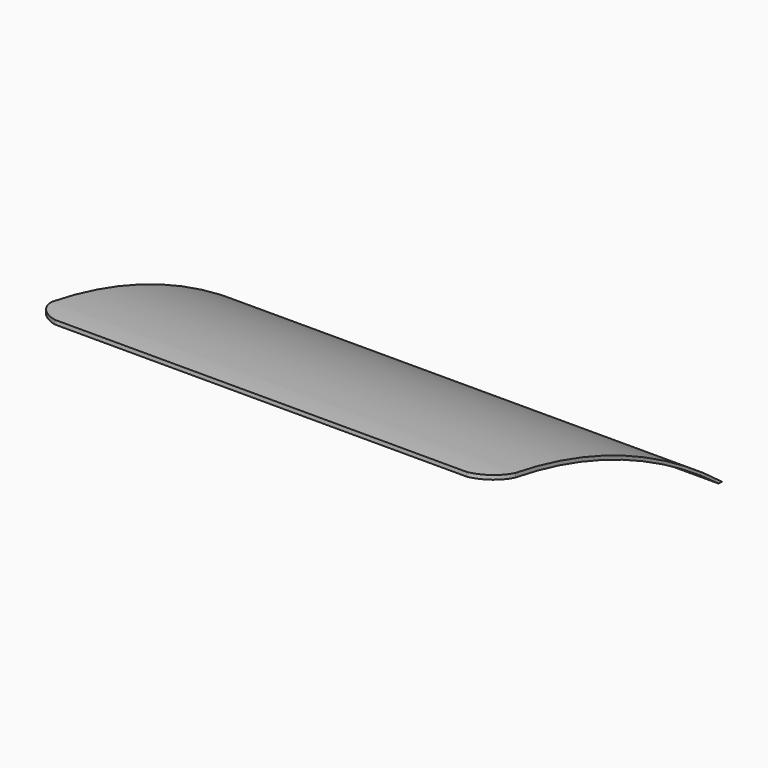
from build123d import *

# Parameters (mm, degrees)
F1_DEPTH      = 154.94
F1_DEPTH_BACK = 154.94
F3_DEPTH      = 186.182


with BuildPart() as f1:
    # F0 (on Right) → F1 (new body, two sides)
    with BuildSketch(Plane.YZ) as f1_sk:
        with BuildLine():
            ThreePointArc((-188.7878807099, 75.1623316368), (-89.2907214559, 50.3991008102), (0, 0))
            Line((0, 0), (2.794, 0))
            ThreePointArc((2.794, 0), (-87.6056719262, 52.227498147), (-188.7878807099, 77.9563316368))
            Line((-188.7878807099, 77.9563316368), (-188.7878807099, 75.1623316368))
        make_face()
    extrude(amount=-F1_DEPTH)
    extrude(f1_sk.sketch, amount=F1_DEPTH_BACK)

    # F2 (on Top) → F3 (cut)
    with BuildSketch(Plane.XY):
        with BuildLine():
            ThreePointArc((-126.7025372224, -188.7878807099), (-147.6240234131, -183.5115430003), (-154.94, -163.2131487131))
            Line((-154.94, -163.2131487131), (-161.3427400589, -163.2131487131))
            Line((-161.3427400589, -163.2131487131), (-161.3427400589, -196.9332418511))
            Line((-161.3427400589, -196.9332418511), (-120.7653358579, -196.9332418511))
            Line((-120.7653358579, -196.9332418511), (-126.7025372224, -188.7878807099))
        make_face()
        with BuildLine():
            Line((126.7025372224, -188.7878807099), (120.7653358579, -196.9332418511))
            Line((120.7653358579, -196.9332418511), (161.3427400589, -196.9332418511))
            Line((161.3427400589, -196.9332418511), (161.3427400589, -163.2131487131))
            Line((161.3427400589, -163.2131487131), (154.94, -163.2131487131))
            ThreePointArc((154.94, -163.2131487131), (147.6240234131, -183.5115430003), (126.7025372224, -188.7878807099))
        make_face()
    extrude(amount=F3_DEPTH, mode=Mode.SUBTRACT)


solid = f1.part
